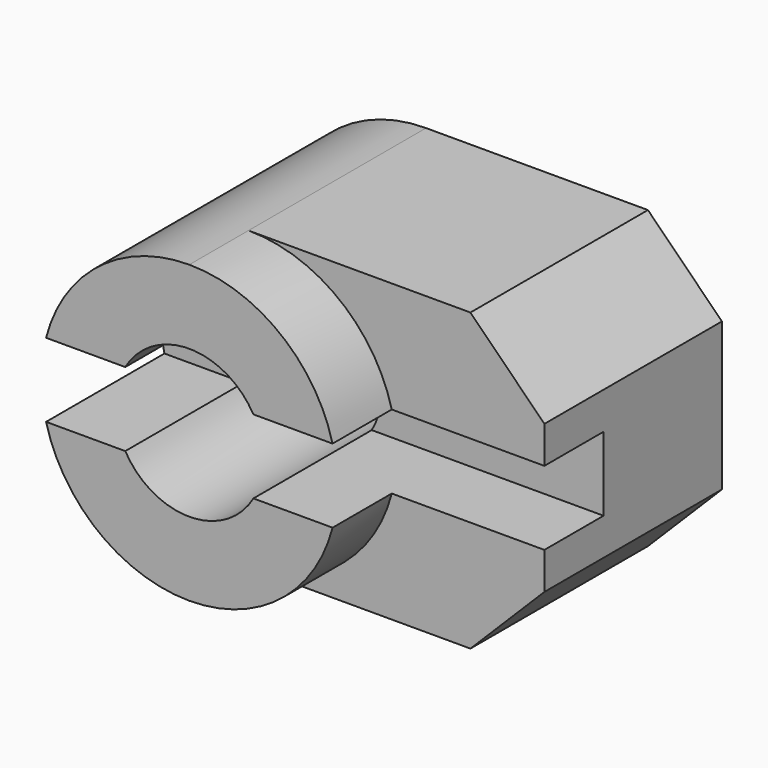
from build123d import *

# Parameters (mm, degrees)
F1_DEPTH = 20
F2_DEPTH = 15
F3_R     = 5
F4_DEPTH = 20.001
F5_W     = 5
F5_H     = 5
F6_DEPTH = 30.001


with BuildPart() as f1:
    # F0 (on Front) → F1 (new body)
    with BuildSketch(Plane.XZ):
        with BuildLine():
            ThreePointArc((0, -10), (7.071068, -7.071068), (10, 0))
            ThreePointArc((10, 0), (7.071068, 7.071068), (0, 10))
            ThreePointArc((0, 10), (-10, 0), (0, -10))
        make_face()
    extrude(amount=F1_DEPTH)

    # F0 (on Front) → F2 (join)
    with BuildSketch(Plane.XZ):
        with BuildLine():
            ThreePointArc((0, 10), (7.071068, 7.071068), (10, 0))
            ThreePointArc((10, 0), (7.071068, -7.071068), (0, -10))
            Line((0, -10), (15, -10))
            Line((15, -10), (20, -5))
            Line((20, -5), (20, 5))
            Line((20, 5), (15, 10))
            Line((15, 10), (0, 10))
        make_face()
    extrude(amount=F2_DEPTH)

    # F3 (on face) → F4 (cut, through all)
    with BuildSketch(Plane.XZ.offset(20)):
        Circle(F3_R)
    extrude(amount=-F4_DEPTH, mode=Mode.SUBTRACT)

    # F5 (on face) → F6 (cut, through all)
    with BuildSketch(Plane.YZ.offset(20)):
        with Locations((-12.5, 0)):
            Rectangle(F5_W, F5_H)
        with Locations((-17.5, 0)):
            Rectangle(F5_W, F5_H)
    extrude(amount=-F6_DEPTH, mode=Mode.SUBTRACT)


solid = f1.part
